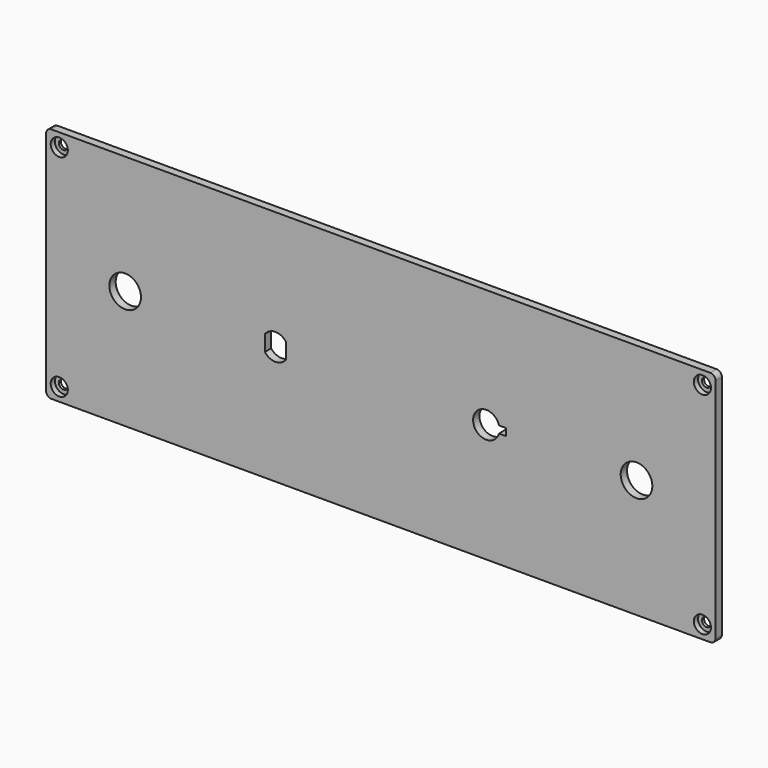
from build123d import *

# Parameters (mm, degrees)
F0_W           = 254
F0_H           = 90
F0_R           = 6
F1_DEPTH       = 3
F3_D           = 3.5
F3_CBORE_D     = 6.5
F3_CBORE_DEPTH = 2
F4_R           = 2


with BuildPart() as f1:
    # F0 (on Front) → F1 (new body)
    with BuildSketch(Plane.XZ):
        Rectangle(F0_W, F0_H)
        with Locations((-97, 0)):
            Circle(F0_R, mode=Mode.SUBTRACT)
        with BuildLine():
            Line((-44, -3), (-44, 3))
            ThreePointArc((-44, 3), (-40, 5), (-36, 3))
            Line((-36, 3), (-36, -3))
            ThreePointArc((-36, -3), (-40, -5), (-44, -3))
        make_face(mode=Mode.SUBTRACT)
        with BuildLine():
            ThreePointArc((44.814302, -1.35), (35, 0), (44.814302, 1.35))
            Line((44.814302, 1.35), (47.5, 1.35))
            Line((47.5, 1.35), (47.5, -1.35))
            Line((47.5, -1.35), (44.814302, -1.35))
        make_face(mode=Mode.SUBTRACT)
        with Locations((97, 0)):
            Circle(F0_R, mode=Mode.SUBTRACT)
    extrude(amount=F1_DEPTH)

    # F3 (through all)
    with Locations(Plane.XZ.offset(3)):
        with Locations((-122, 40), (-122, -40), (122, 40), (122, -40)):
            CounterBoreHole(F3_D / 2, F3_CBORE_D / 2, F3_CBORE_DEPTH)

    # F4
    f4_edges = [f1.edges().sort_by_distance(p)[0] for p in [
        (-127, -1.5, 45),
        (-127, -1.5, -45),
        (127, -1.5, -45),
        (127, -1.5, 45),
    ]]
    fillet(f4_edges, radius=F4_R)


solid = f1.part
